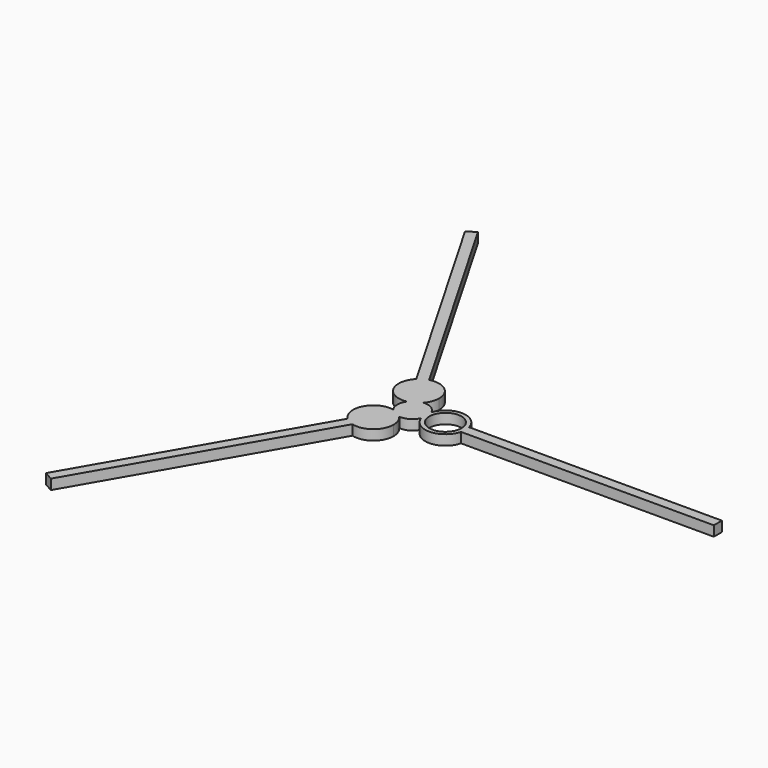
from build123d import *

# Parameters (mm, degrees)
F1_DEPTH = 2
F2_R     = 3.175
F3_DEPTH = 25


with BuildPart() as f1:
    # F0 (on Top) → F1 (new body)
    with BuildSketch(Plane.XY):
        with BuildLine():
            ThreePointArc((2.7115384615, -1.2835728151), (2.9269963601, -0.6577935145), (3, 0))
            ThreePointArc((3, 0), (2.9269963601, 0.6577935145), (2.7115384615, 1.2835728151))
            ThreePointArc((2.7115384615, 1.2835728151), (2.5, 0), (2.7115384615, -1.2835728151))
        make_face()
        with BuildLine():
            ThreePointArc((2.7115384615, -1.2835728151), (2.5, 0), (2.7115384615, 1.2835728151))
            ThreePointArc((2.7115384615, 1.2835728151), (1.5, 2.5980762114), (-0.2441625653, 2.9900475986))
            ThreePointArc((-0.2441625653, 2.9900475986), (-1.25, 2.1650635095), (-2.4673758962, 1.7064747835))
            ThreePointArc((-2.4673758962, 1.7064747835), (-3, 0), (-2.4673758962, -1.7064747835))
            ThreePointArc((-2.4673758962, -1.7064747835), (-1.25, -2.1650635095), (-0.2441625653, -2.9900475986))
            ThreePointArc((-0.2441625653, -2.9900475986), (1.5, -2.5980762114), (2.7115384615, -1.2835728151))
        make_face()
        with BuildLine():
            ThreePointArc((2.7115384615, -1.2835728151), (2.5, 0), (2.7115384615, 1.2835728151))
            ThreePointArc((2.7115384615, 1.2835728151), (1.5, 2.5980762114), (-0.2441625653, 2.9900475986))
            ThreePointArc((-0.2441625653, 2.9900475986), (-1.25, 2.1650635095), (-2.4673758962, 1.7064747835))
            ThreePointArc((-2.4673758962, 1.7064747835), (-3, 0), (-2.4673758962, -1.7064747835))
            ThreePointArc((-2.4673758962, -1.7064747835), (-1.25, -2.1650635095), (-0.2441625653, -2.9900475986))
            ThreePointArc((-0.2441625653, -2.9900475986), (1.5, -2.5980762114), (2.7115384615, -1.2835728151))
        make_face()
        with BuildLine():
            ThreePointArc((-2.4673758962, 1.7064747835), (-1.5, 2.5980762114), (-0.2441625653, 2.9900475986))
            ThreePointArc((-0.2441625653, 2.9900475986), (0.4932171817, 4.2190852933), (0.75, 5.6291651246))
            ThreePointArc((0.75, 5.6291651246), (-0.8294489344, 8.8136482127), (-4.3204662693, 9.4832670908))
            Line((-4.3204662693, 9.4832670908), (-6.0525170769, 8.4832670908))
            ThreePointArc((-6.0525170769, 8.4832670908), (-6.7857064923, 3.7586626253), (-2.4673758962, 1.7064747835))
        make_face()
        with BuildLine():
            ThreePointArc((-2.4673758962, 1.7064747835), (-1.25, 2.1650635095), (-0.2441625653, 2.9900475986))
            ThreePointArc((-0.2441625653, 2.9900475986), (-1.5, 2.5980762114), (-2.4673758962, 1.7064747835))
        make_face()
        with BuildLine():
            ThreePointArc((-2.4673758962, -1.7064747835), (-1.5, -2.5980762114), (-0.2441625653, -2.9900475986))
            ThreePointArc((-0.2441625653, -2.9900475986), (-1.25, -2.1650635095), (-2.4673758962, -1.7064747835))
        make_face()
        with BuildLine():
            ThreePointArc((0.75, -5.6291651246), (0.4932171817, -4.2190852933), (-0.2441625653, -2.9900475986))
            ThreePointArc((-0.2441625653, -2.9900475986), (-1.5, -2.5980762114), (-2.4673758962, -1.7064747835))
            ThreePointArc((-2.4673758962, -1.7064747835), (-6.7857064923, -3.7586626253), (-6.0525170769, -8.4832670908))
            Line((-6.0525170769, -8.4832670908), (-4.3204662693, -9.4832670908))
            ThreePointArc((-4.3204662693, -9.4832670908), (-0.8294489344, -8.8136482127), (0.75, -5.6291651246))
        make_face()
        with BuildLine():
            ThreePointArc((2.7115384615, 1.2835728151), (2.9269963601, 0.6577935145), (3, 0))
            ThreePointArc((3, 0), (2.9269963601, -0.6577935145), (2.7115384615, -1.2835728151))
            ThreePointArc((2.7115384615, -1.2835728151), (6.6479505639, -3.9972628924), (10.3729833462, -1))
            Line((10.3729833462, -1), (10.3729833462, 1))
            ThreePointArc((10.3729833462, 1), (6.6479505639, 3.9972628924), (2.7115384615, 1.2835728151))
        make_face()
        with BuildLine():
            Line((60.3729833462, 1), (10.3729833462, 1))
            ThreePointArc((10.3729833462, 1), (10.4681187851, 0.5040171699), (10.5, 0))
            ThreePointArc((10.5, 0), (10.4681187851, -0.5040171699), (10.3729833462, -1))
            Line((10.3729833462, -1), (60.3729833462, -1))
            Line((60.3729833462, -1), (60.3729833462, 1))
        make_face()
        with BuildLine():
            ThreePointArc((10.5, 0), (10.4681187851, 0.5040171699), (10.3729833462, 1))
            Line((10.3729833462, 1), (10.3729833462, -1))
            ThreePointArc((10.3729833462, -1), (10.4681187851, -0.5040171699), (10.5, 0))
        make_face()
        with BuildLine():
            Line((-4.3204662693, -9.4832670908), (-6.0525170769, -8.4832670908))
            ThreePointArc((-6.0525170769, -8.4832670908), (-5.25, -9.0932667397), (-4.3204662693, -9.4832670908))
        make_face()
        with BuildLine():
            ThreePointArc((-4.3204662693, -9.4832670908), (-5.25, -9.0932667397), (-6.0525170769, -8.4832670908))
            Line((-6.0525170769, -8.4832670908), (-31.0525170769, -51.7845372801))
            Line((-31.0525170769, -51.7845372801), (-29.3204662693, -52.7845372801))
            Line((-29.3204662693, -52.7845372801), (-4.3204662693, -9.4832670908))
        make_face()
        with BuildLine():
            ThreePointArc((-4.3204662693, 9.4832670908), (-5.25, 9.0932667397), (-6.0525170769, 8.4832670908))
            Line((-6.0525170769, 8.4832670908), (-4.3204662693, 9.4832670908))
        make_face()
        with BuildLine():
            Line((-31.0525170769, 51.7845372801), (-6.0525170769, 8.4832670908))
            ThreePointArc((-6.0525170769, 8.4832670908), (-5.25, 9.0932667397), (-4.3204662693, 9.4832670908))
            Line((-4.3204662693, 9.4832670908), (-29.3204662693, 52.7845372801))
            Line((-29.3204662693, 52.7845372801), (-31.0525170769, 51.7845372801))
        make_face()
    extrude(amount=F1_DEPTH)

    # F2 (on face) → F3 (cut)
    with BuildSketch(Plane.XY.offset(2)):
        with Locations((6.5, 0)):
            Circle(F2_R)
    extrude(amount=-F3_DEPTH, mode=Mode.SUBTRACT)


solid = f1.part
